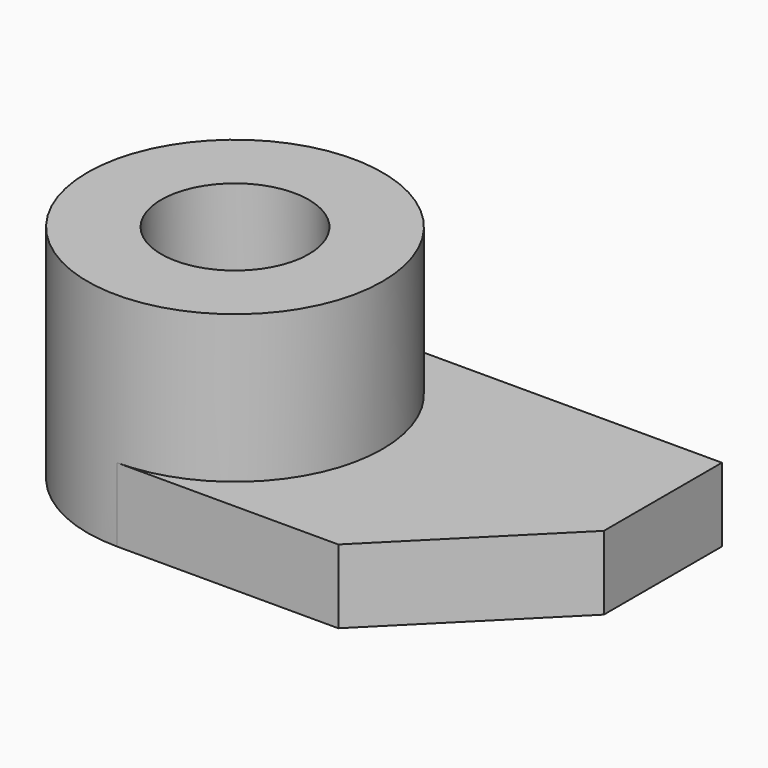
from build123d import *

# Parameters (mm, degrees)
F0_R     = 12.7
F1_DEPTH = 19.05
F2_R     = 6.35
F3_DEPTH = 19.05
F5_DEPTH = 6.35


with BuildPart() as f1:
    # F0 (on Top) → F1 (new body)
    with BuildSketch(Plane.XY):
        Circle(F0_R)
    extrude(amount=F1_DEPTH)

    # F2 (on face) → F3 (cut)
    with BuildSketch(Plane.XY.offset(19.05)):
        Circle(F2_R)
    extrude(amount=-F3_DEPTH, mode=Mode.SUBTRACT)

    # F4 (on Top) → F5 (join)
    with BuildSketch(Plane.XY):
        with BuildLine():
            Line((31.75, 12.7), (0, 12.7))
            ThreePointArc((0, 12.7), (-12.7, 0), (0, -12.7))
            Line((0, -12.7), (19.05, -12.7))
            Line((19.05, -12.7), (31.75, 0))
            Line((31.75, 0), (31.75, 12.7))
        make_face()
    extrude(amount=F5_DEPTH)


solid = f1.part
